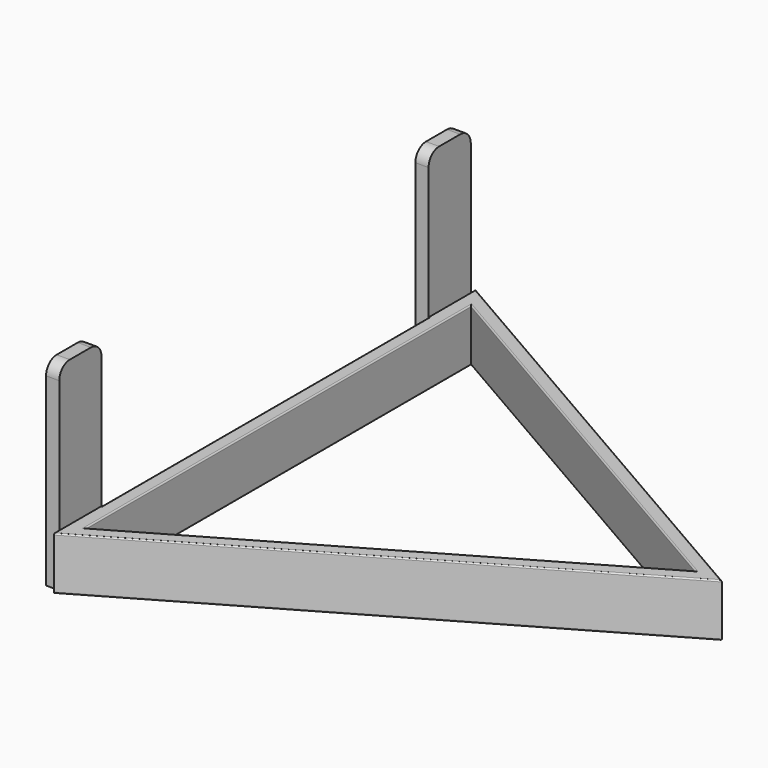
from build123d import *

# Parameters (mm, degrees)
F1_DEPTH = 40
F3_DEPTH = 10
F4_R     = 1


with BuildPart() as f1:
    # F0 (on Top) → F1 (new body)
    with BuildSketch(Plane.XY):
        Polygon((-346.4101615138, -200), (0, 0), (-346.4101615138, 200), align=None)
        Polygon((-336.4101615138, 182.6794919243), (-20, 0), (-336.4101615138, -182.6794919243), align=None, mode=Mode.SUBTRACT)
    extrude(amount=F1_DEPTH)

    # F2 (on face) → F3 (join)
    with BuildSketch(Plane(origin=(-346.4101615138, 0, 0), x_dir=(0, -1, 0), z_dir=(-1, 0, 0))):
        with BuildLine():
            Line((-195, 140), (-195, 0))
            Line((-195, 0), (-155, 0))
            Line((-155, 0), (-155, 140))
            ThreePointArc((-155, 140), (-157.9289321881, 147.0710678119), (-165, 150))
            Line((-165, 150), (-185, 150))
            ThreePointArc((-185, 150), (-192.0710678119, 147.0710678119), (-195, 140))
        make_face()
        with BuildLine():
            Line((155, 0), (195, 0))
            Line((195, 0), (195, 140))
            ThreePointArc((195, 140), (192.0710678119, 147.0710678119), (185, 150))
            Line((185, 150), (165, 150))
            ThreePointArc((165, 150), (157.9289321881, 147.0710678119), (155, 140))
            Line((155, 140), (155, 0))
        make_face()
    extrude(amount=F3_DEPTH)

    # F4
    f4_edges = [f1.edges().sort_by_distance(p)[0] for p in [
        (-346.410162, 0, 40),
        (-178.205081, 91.339746, 40),
        (-173.205081, 100, 40),
        (-173.205081, -100, 40),
        (-178.205081, -91.339746, 40),
        (-336.410162, 0, 40),
        (-173.205081, -100, 0),
        (-173.205081, 100, 0),
        (-346.410162, 0, 0),
        (-178.205081, -91.339746, 0),
        (-178.205081, 91.339746, 0),
        (-336.410162, 0, 0),
    ]]
    fillet(f4_edges, radius=F4_R)


solid = f1.part
